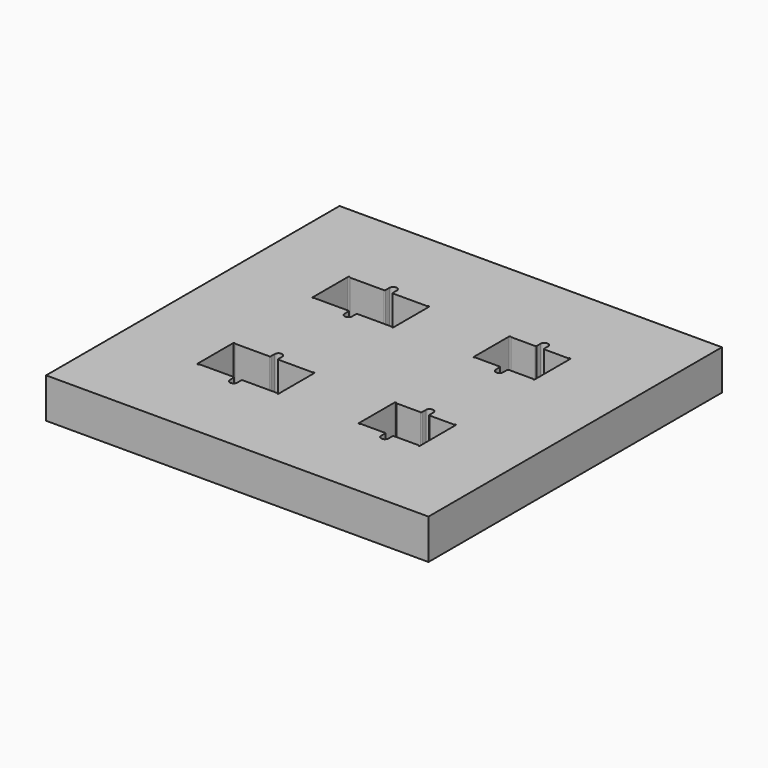
from build123d import *

# Parameters (mm, degrees)
F0_W     = 95.6
F0_H     = 91.7
F1_DEPTH = 10


with BuildPart() as f1:
    # F0 (on Top) → F1 (new body)
    with BuildSketch(Plane.XY):
        with Locations((47.8, 45.85)):
            Rectangle(F0_W, F0_H)
        with BuildLine():
            ThreePointArc((29.025, 33.5), (29.166421, 33.558579), (29.225, 33.7))
            Line((29.225, 33.7), (29.225, 34.925))
            ThreePointArc((29.225, 34.925), (30.15, 35.85), (31.075, 34.925))
            Line((31.075, 34.925), (31.075, 33.7))
            ThreePointArc((31.075, 33.7), (31.133579, 33.558579), (31.275, 33.5))
            Line((31.275, 33.5), (39.817157, 33.5))
            ThreePointArc((39.817157, 33.5), (39.874892, 33.51835), (39.911438, 33.566667))
            ThreePointArc((39.911438, 33.566667), (40.13382, 33.69712), (40.3, 33.5))
            Line((40.3, 33.5), (40.3, 22.35))
            ThreePointArc((40.3, 22.35), (40.13382, 22.15288), (39.911438, 22.283333))
            ThreePointArc((39.911438, 22.283333), (39.874892, 22.33165), (39.817157, 22.35))
            Line((39.817157, 22.35), (31.275, 22.35))
            ThreePointArc((31.275, 22.35), (31.133579, 22.291421), (31.075, 22.15))
            Line((31.075, 22.15), (31.075, 20.925))
            ThreePointArc((31.075, 20.925), (30.15, 20), (29.225, 20.925))
            Line((29.225, 20.925), (29.225, 22.15))
            ThreePointArc((29.225, 22.15), (29.166421, 22.291421), (29.025, 22.35))
            Line((29.025, 22.35), (20.482843, 22.35))
            ThreePointArc((20.482843, 22.35), (20.425108, 22.33165), (20.388562, 22.283333))
            ThreePointArc((20.388562, 22.283333), (20.16618, 22.15288), (20, 22.35))
            Line((20, 22.35), (20, 33.5))
            ThreePointArc((20, 33.5), (20.16618, 33.69712), (20.388562, 33.566667))
            ThreePointArc((20.388562, 33.566667), (20.425108, 33.51835), (20.482843, 33.5))
            Line((20.482843, 33.5), (29.025, 33.5))
        make_face(mode=Mode.SUBTRACT)
        with BuildLine():
            ThreePointArc((66.825, 33.5), (66.966421, 33.558579), (67.025, 33.7))
            Line((67.025, 33.7), (67.025, 34.925))
            ThreePointArc((67.025, 34.925), (67.95, 35.85), (68.875, 34.925))
            Line((68.875, 34.925), (68.875, 33.7))
            ThreePointArc((68.875, 33.7), (68.933579, 33.558579), (69.075, 33.5))
            Line((69.075, 33.5), (75.117157, 33.5))
            ThreePointArc((75.117157, 33.5), (75.174892, 33.51835), (75.211438, 33.566667))
            ThreePointArc((75.211438, 33.566667), (75.43382, 33.69712), (75.6, 33.5))
            Line((75.6, 33.5), (75.6, 22.35))
            ThreePointArc((75.6, 22.35), (75.43382, 22.15288), (75.211438, 22.283333))
            ThreePointArc((75.211438, 22.283333), (75.174892, 22.33165), (75.117157, 22.35))
            Line((75.117157, 22.35), (69.075, 22.35))
            ThreePointArc((69.075, 22.35), (68.933579, 22.291421), (68.875, 22.15))
            Line((68.875, 22.15), (68.875, 20.925))
            ThreePointArc((68.875, 20.925), (67.95, 20), (67.025, 20.925))
            Line((67.025, 20.925), (67.025, 22.15))
            ThreePointArc((67.025, 22.15), (66.966421, 22.291421), (66.825, 22.35))
            Line((66.825, 22.35), (60.782843, 22.35))
            ThreePointArc((60.782843, 22.35), (60.725108, 22.33165), (60.688562, 22.283333))
            ThreePointArc((60.688562, 22.283333), (60.46618, 22.15288), (60.3, 22.35))
            Line((60.3, 22.35), (60.3, 33.5))
            ThreePointArc((60.3, 33.5), (60.46618, 33.69712), (60.688562, 33.566667))
            ThreePointArc((60.688562, 33.566667), (60.725108, 33.51835), (60.782843, 33.5))
            Line((60.782843, 33.5), (66.825, 33.5))
        make_face(mode=Mode.SUBTRACT)
        with BuildLine():
            ThreePointArc((29.025, 69.325), (29.166421, 69.383579), (29.225, 69.525))
            Line((29.225, 69.525), (29.225, 70.775))
            ThreePointArc((29.225, 70.775), (30.15, 71.7), (31.075, 70.775))
            Line((31.075, 70.775), (31.075, 69.525))
            ThreePointArc((31.075, 69.525), (31.133579, 69.383579), (31.275, 69.325))
            Line((31.275, 69.325), (39.792157, 69.325))
            ThreePointArc((39.792157, 69.325), (39.849892, 69.34335), (39.886438, 69.391667))
            ThreePointArc((39.886438, 69.391667), (40.10882, 69.52212), (40.275, 69.325))
            Line((40.275, 69.325), (40.275, 58.225))
            ThreePointArc((40.275, 58.225), (40.10882, 58.02788), (39.886438, 58.158333))
            ThreePointArc((39.886438, 58.158333), (39.849892, 58.20665), (39.792157, 58.225))
            Line((39.792157, 58.225), (31.275, 58.225))
            ThreePointArc((31.275, 58.225), (31.133579, 58.166421), (31.075, 58.025))
            Line((31.075, 58.025), (31.075, 56.775))
            ThreePointArc((31.075, 56.775), (30.15, 55.85), (29.225, 56.775))
            Line((29.225, 56.775), (29.225, 58.025))
            ThreePointArc((29.225, 58.025), (29.166421, 58.166421), (29.025, 58.225))
            Line((29.025, 58.225), (20.507843, 58.225))
            ThreePointArc((20.507843, 58.225), (20.450108, 58.20665), (20.413562, 58.158333))
            ThreePointArc((20.413562, 58.158333), (20.19118, 58.02788), (20.025, 58.225))
            Line((20.025, 58.225), (20.025, 69.325))
            ThreePointArc((20.025, 69.325), (20.19118, 69.52212), (20.413562, 69.391667))
            ThreePointArc((20.413562, 69.391667), (20.450108, 69.34335), (20.507843, 69.325))
            Line((20.507843, 69.325), (29.025, 69.325))
        make_face(mode=Mode.SUBTRACT)
        with BuildLine():
            ThreePointArc((66.825, 69.325), (66.966421, 69.383579), (67.025, 69.525))
            Line((67.025, 69.525), (67.025, 70.775))
            ThreePointArc((67.025, 70.775), (67.95, 71.7), (68.875, 70.775))
            Line((68.875, 70.775), (68.875, 69.525))
            ThreePointArc((68.875, 69.525), (68.933579, 69.383579), (69.075, 69.325))
            Line((69.075, 69.325), (75.092157, 69.325))
            ThreePointArc((75.092157, 69.325), (75.149892, 69.34335), (75.186438, 69.391667))
            ThreePointArc((75.186438, 69.391667), (75.40882, 69.52212), (75.575, 69.325))
            Line((75.575, 69.325), (75.575, 58.225))
            ThreePointArc((75.575, 58.225), (75.40882, 58.02788), (75.186438, 58.158333))
            ThreePointArc((75.186438, 58.158333), (75.149892, 58.20665), (75.092157, 58.225))
            Line((75.092157, 58.225), (69.075, 58.225))
            ThreePointArc((69.075, 58.225), (68.933579, 58.166421), (68.875, 58.025))
            Line((68.875, 58.025), (68.875, 56.775))
            ThreePointArc((68.875, 56.775), (67.95, 55.85), (67.025, 56.775))
            Line((67.025, 56.775), (67.025, 58.025))
            ThreePointArc((67.025, 58.025), (66.966421, 58.166421), (66.825, 58.225))
            Line((66.825, 58.225), (60.807843, 58.225))
            ThreePointArc((60.807843, 58.225), (60.750108, 58.20665), (60.713562, 58.158333))
            ThreePointArc((60.713562, 58.158333), (60.49118, 58.02788), (60.325, 58.225))
            Line((60.325, 58.225), (60.325, 69.325))
            ThreePointArc((60.325, 69.325), (60.49118, 69.52212), (60.713562, 69.391667))
            ThreePointArc((60.713562, 69.391667), (60.750108, 69.34335), (60.807843, 69.325))
            Line((60.807843, 69.325), (66.825, 69.325))
        make_face(mode=Mode.SUBTRACT)
    extrude(amount=F1_DEPTH)


solid = f1.part
